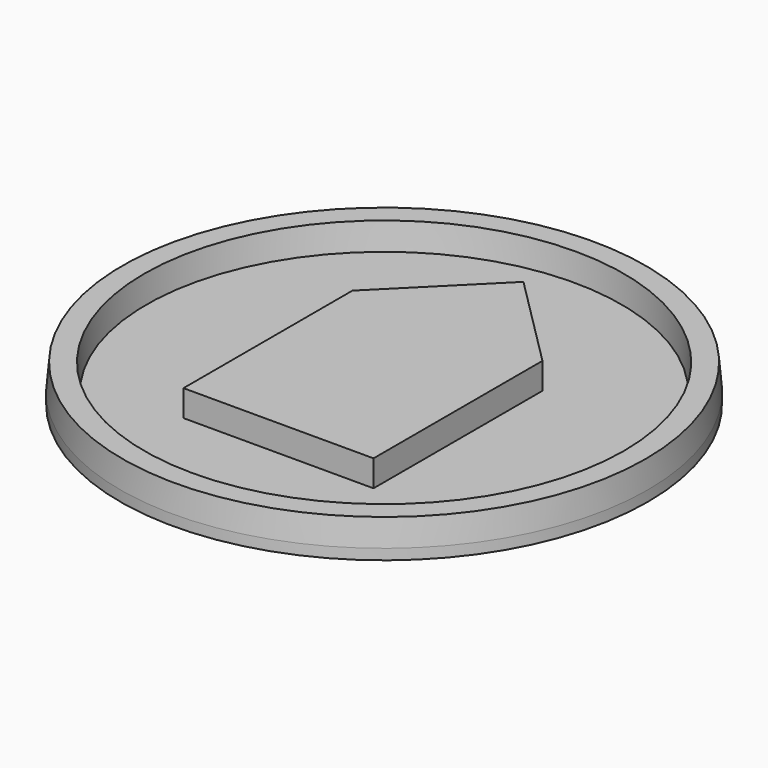
from build123d import *

# Parameters (mm, degrees)
F0_R     = 50
F1_DEPTH = 2
F2_R     = 50
F2_R_2   = 45
F3_DEPTH = 5
F3_TAPER = 5
F5_DEPTH = 5


with BuildPart() as f1:
    # F0 (on Top) → F1 (new body)
    with BuildSketch(Plane.XY):
        Circle(F0_R)
    extrude(amount=F1_DEPTH)

    # F2 (on face) → F3 (join)
    with BuildSketch(Plane.XY.offset(2)):
        Circle(F2_R)
        Circle(F2_R_2, mode=Mode.SUBTRACT)
    extrude(amount=F3_DEPTH, taper=F3_TAPER)

    # F4 (on face) → F5 (join, through all)
    with BuildSketch(Plane.XY.offset(2)):
        Polygon((-18, -25), (0, -25), (18, -25), (18, 15), (0, 33), (-18, 15), align=None)
    extrude(amount=F5_DEPTH)


solid = f1.part
